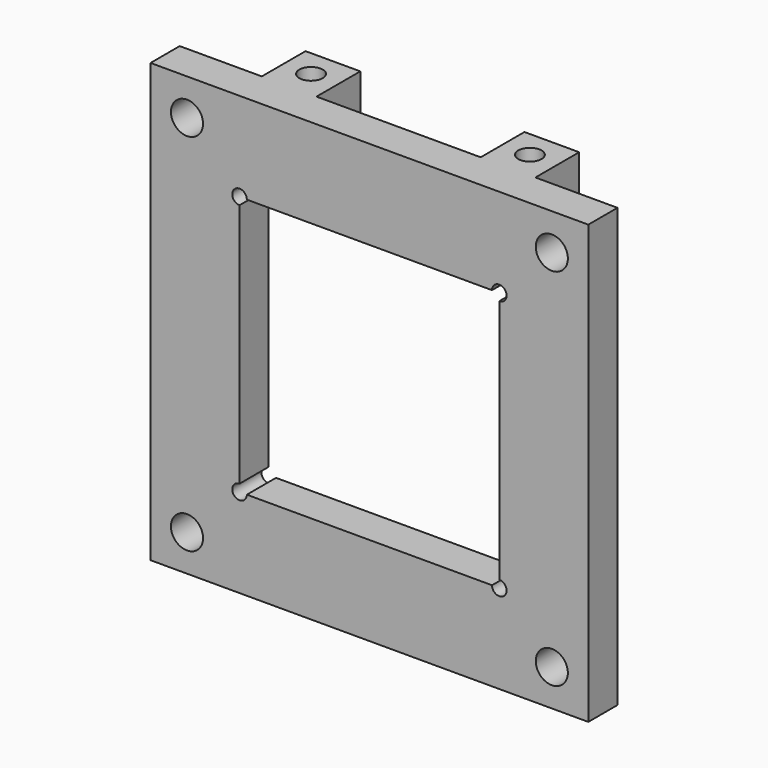
from build123d import *

# Parameters (mm, degrees)
F0_W     = 76.2
F0_H     = 76.2
F3_DEPTH = 6.35
F4_DEPTH = 6.351
F2_R     = 2.794
F5_DEPTH = 6.351
F6_W     = 9.525
F6_H     = 9.525
F6_R     = 2.032
F7_DEPTH = 9.525


with BuildPart() as f3:
    # F0 (on Front) → F3 (new body)
    with BuildSketch(Plane.XZ):
        Rectangle(F0_W, F0_H)
    extrude(amount=F3_DEPTH)

    # F1 (on Front) → F4 (cut, through all)
    with BuildSketch(Plane.XZ):
        with BuildLine():
            Line((21.336, 22.606), (-21.336, 22.606))
            ThreePointArc((-21.336, 22.606), (-23.504026, 23.504026), (-22.606, 21.336))
            Line((-22.606, 21.336), (-22.606, -21.336))
            ThreePointArc((-22.606, -21.336), (-23.504026, -23.504026), (-21.336, -22.606))
            Line((-21.336, -22.606), (21.336, -22.606))
            ThreePointArc((21.336, -22.606), (23.504026, -23.504026), (22.606, -21.336))
            Line((22.606, -21.336), (22.606, 21.336))
            ThreePointArc((22.606, 21.336), (23.504026, 23.504026), (21.336, 22.606))
        make_face()
    extrude(amount=F4_DEPTH, mode=Mode.SUBTRACT)

    # F2 (on Front) → F5 (cut, through all)
    with BuildSketch(Plane.XZ):
        with Locations((-31.75, 31.75)):
            Circle(F2_R)
        with Locations((-31.75, -31.75)):
            Circle(F2_R)
        with Locations((31.75, -31.75)):
            Circle(F2_R)
        with Locations((31.75, 31.75)):
            Circle(F2_R)
    extrude(amount=F5_DEPTH, mode=Mode.SUBTRACT)

    # F6 (on face) → F7 (join)
    with BuildSketch(Plane.XY.offset(38.1)):
        with Locations((-19.05, 4.7625)):
            Rectangle(F6_W, F6_H)
        with Locations((-19.05, 4.7625)):
            Circle(F6_R, mode=Mode.SUBTRACT)
        with Locations((19.05, 4.7625)):
            Rectangle(F6_W, F6_H)
        with Locations((19.05, 4.7625)):
            Circle(F6_R, mode=Mode.SUBTRACT)
    extrude(amount=-F7_DEPTH)


solid = f3.part
